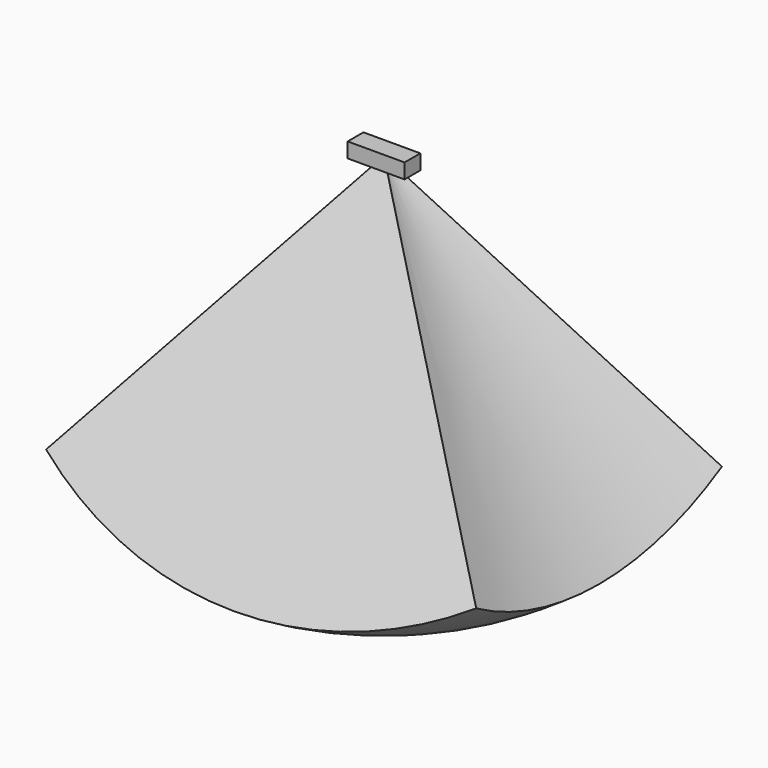
from build123d import *

# Parameters (mm, degrees)
F3_ANGLE_BACK = 30
F3_ANGLE      = 60
F2_W          = 3.7940205075
F2_H          = 2.6295655407
F4_DEPTH      = 1


with BuildPart() as f3:
    # F0 (on Front) → F3 (revolve)
    with BuildSketch(Plane.XZ, mode=Mode.PRIVATE) as f3_sk:
        with BuildLine():
            Line((28.6788218176, -15.6407412676), (0, 25.3168609469))
            Line((0, 25.3168609469), (-28.6788218176, -15.6407412676))
            ThreePointArc((-28.6788218176, -15.6407412676), (0, -24.6831390531), (28.6788218176, -15.6407412676))
        make_face()
    revolve(f3_sk.sketch.rotate(Axis((3.0188281089, 0, 25.3168609469), (1, 0, 0)), -F3_ANGLE_BACK), axis=Axis((3.0188281089, 0, 25.3168609469), (1, 0, 0)), revolution_arc=F3_ANGLE)

    # F2 (on plane+point) → F4 (join, symmetric)
    with BuildSketch(Plane.XY.offset(25.3168609469)):
        with Locations((1.8970102537, 0)):
            Rectangle(F2_W, F2_H)
        with Locations((-1.8970102537, 0)):
            Rectangle(F2_W, F2_H)
    extrude(amount=F4_DEPTH, both=True)


solid = f3.part
